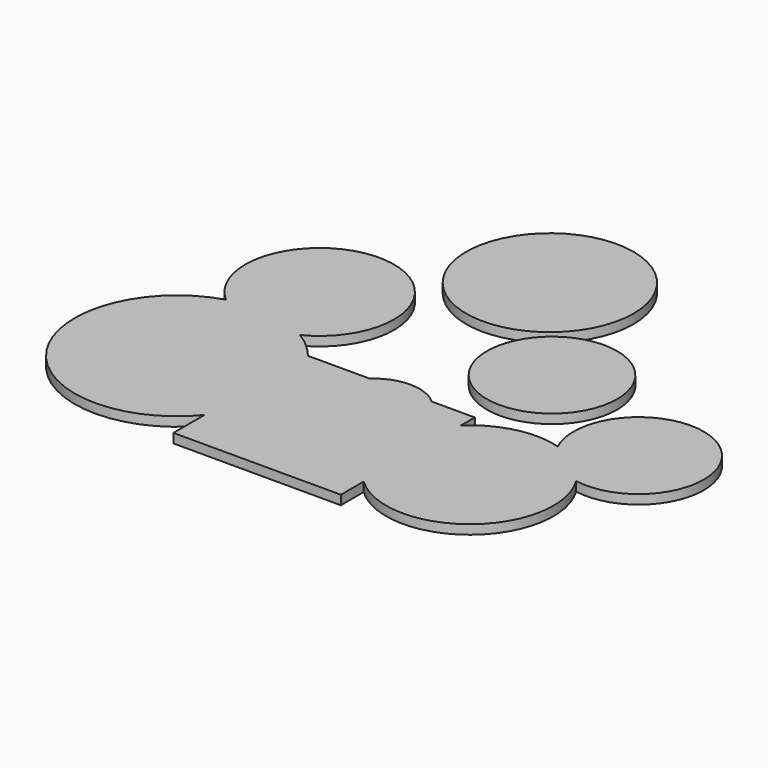
from build123d import *

# Parameters (mm, degrees)
F1_DEPTH = 25.4
F0_R     = 177.8
F0_R_2   = 228.6


with BuildPart() as f1:
    # F0 (on Top) → F1 (new body)
    with BuildSketch(Plane.XY):
        with BuildLine():
            Line((0, 106.1704925997), (0, 0))
            Line((0, 0), (457.2, 0))
            Line((457.2, 0), (457.2, 77.9280348806))
            ThreePointArc((457.2, 77.9280348806), (385.7461465836, 243.9492642879), (457.2, 409.9704936953))
            Line((457.2, 409.9704936953), (457.2, 457.2))
            Line((457.2, 457.2), (339.9722308065, 457.2))
            ThreePointArc((339.9722308065, 457.2), (370.8808979376, 414.5282916672), (381.8108994961, 362.9845678806))
            ThreePointArc((381.8108994961, 362.9845678806), (203.2671757095, 246.9145694391), (169.6495681857, 457.2))
            Line((169.6495681857, 457.2), (1.8290267585, 457.2))
            ThreePointArc((1.8290267585, 457.2), (47.2113490763, 375.2059900347), (62.9281938314, 282.8179299831))
            ThreePointArc((62.9281938314, 282.8179299831), (46.7263916249, 189.0572309763), (0, 106.1704925997))
        make_face()
        with BuildLine():
            ThreePointArc((-297.047132431, 550.3473242517), (-448.7221619418, 127.4984777462), (0, 106.1704925997))
            Line((0, 106.1704925997), (0, 457.2))
            Line((0, 457.2), (1.8290267585, 457.2))
            ThreePointArc((1.8290267585, 457.2), (-31.9985650247, 492.6606884998), (-71.5017510394, 521.6652517514))
            ThreePointArc((-71.5017510394, 521.6652517514), (-188.6613987535, 501.508854323), (-297.047132431, 550.3473242517))
        make_face()
        with BuildLine():
            Line((0, 457.2), (0, 106.1704925997))
            ThreePointArc((0, 106.1704925997), (46.7263916249, 189.0572309763), (62.9281938314, 282.8179299831))
            ThreePointArc((62.9281938314, 282.8179299831), (47.2113490763, 375.2059900347), (1.8290267585, 457.2))
            Line((1.8290267585, 457.2), (0, 457.2))
        make_face()
        with BuildLine():
            ThreePointArc((457.2, 409.9704936953), (385.7461465836, 243.9492642879), (457.2, 77.9280348806))
            Line((457.2, 77.9280348806), (457.2, 409.9704936953))
        make_face()
        with BuildLine():
            Line((457.2, 409.9704936953), (457.2, 77.9280348806))
            ThreePointArc((457.2, 77.9280348806), (704.7185729397, 33.9712069712), (842.9461465836, 243.9492642879))
            ThreePointArc((842.9461465836, 243.9492642879), (834.4653000719, 305.6381471405), (809.6520235075, 362.7498301072))
            ThreePointArc((809.6520235075, 362.7498301072), (731.9200813722, 396.9218069347), (678.8997144688, 463.245403956))
            ThreePointArc((678.8997144688, 463.245403956), (560.933597278, 466.2217537613), (457.2, 409.9704936953))
        make_face()
        with BuildLine():
            ThreePointArc((-71.5017510394, 521.6652517514), (-181.2250247952, 559.9857932047), (-297.047132431, 550.3473242517))
            ThreePointArc((-297.047132431, 550.3473242517), (-188.6613987535, 501.508854323), (-71.5017510394, 521.6652517514))
        make_face()
        with BuildLine():
            ThreePointArc((40.1726240635, 703.0854821205), (-246.864794433, 888.1841781176), (-297.047132431, 550.3473242517))
            ThreePointArc((-297.047132431, 550.3473242517), (-181.2250247952, 559.9857932047), (-71.5017510394, 521.6652517514))
            ThreePointArc((-71.5017510394, 521.6652517514), (10.0163280505, 596.567331036), (40.1726240635, 703.0854821205))
        make_face()
        with BuildLine():
            ThreePointArc((809.6520235075, 362.7498301072), (753.6536225313, 425.1987805496), (678.8997144688, 463.245403956))
            ThreePointArc((678.8997144688, 463.245403956), (731.9200813722, 396.9218069347), (809.6520235075, 362.7498301072))
        make_face()
        with BuildLine():
            ThreePointArc((1018.0703404427, 537.893652916), (802.0529183564, 711.5377390493), (678.8997144688, 463.245403956))
            ThreePointArc((678.8997144688, 463.245403956), (753.6536225313, 425.1987805496), (809.6520235075, 362.7498301072))
            ThreePointArc((809.6520235075, 362.7498301072), (954.6576283048, 401.7746300884), (1018.0703404427, 537.893652916))
        make_face()
        with BuildLine():
            ThreePointArc((339.9722308065, 457.2), (254.8108994961, 489.9845678806), (169.6495681857, 457.2))
            Line((169.6495681857, 457.2), (339.9722308065, 457.2))
        make_face()
        with BuildLine():
            Line((339.9722308065, 457.2), (169.6495681857, 457.2))
            ThreePointArc((169.6495681857, 457.2), (203.2671757095, 246.9145694391), (381.8108994961, 362.9845678806))
            ThreePointArc((381.8108994961, 362.9845678806), (370.8808979376, 414.5282916672), (339.9722308065, 457.2))
        make_face()
    extrude(amount=F1_DEPTH)


with BuildPart() as f1b:
    # F0 (on Top) → F1, piece 2 (new body)
    with BuildSketch(Plane.XY):
        with Locations((463.7300372124, 712.8026485443)):
            Circle(F0_R)
    extrude(amount=F1_DEPTH)


with BuildPart() as f1c:
    # F0 (on Top) → F1, piece 3 (new body)
    with BuildSketch(Plane.XY):
        with Locations((193.5328543186, 1043.1741476059)):
            Circle(F0_R_2)
    extrude(amount=F1_DEPTH)


solid = Compound([f1.part, f1b.part, f1c.part])
